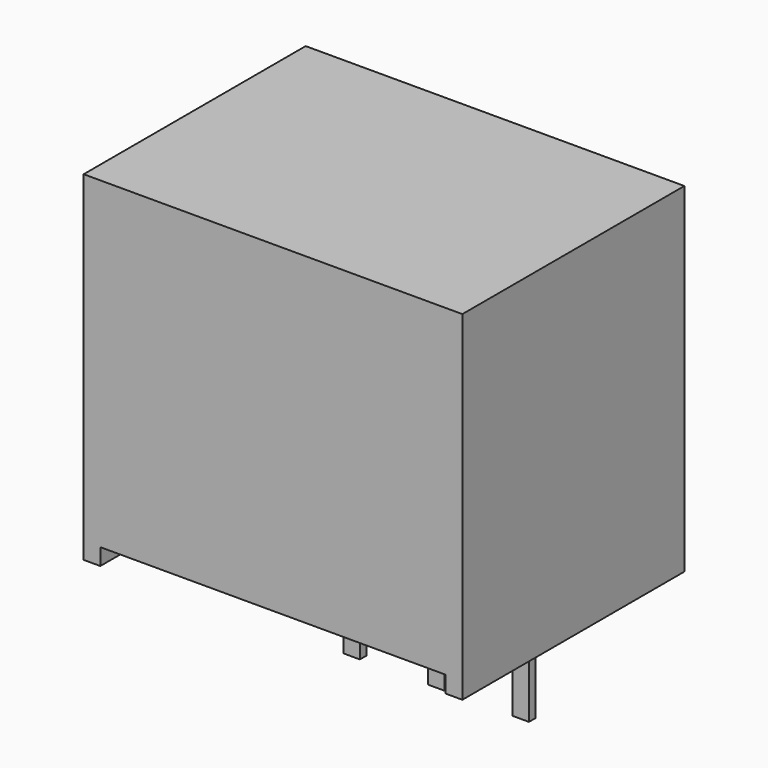
from build123d import *

# Parameters (mm, degrees)
PAD_DEPTH    = 8.5
SKETCH001_W  = 0.5
SKETCH001_H  = 0.25
PAD001_DEPTH = 4.61


with BuildPart() as part:
    # Sketch → Pad (new body)
    with BuildSketch(Plane.XZ):
        Polygon((-5.29, 0), (-5.8, 0), (-5.8, 10.4), (5.8, 10.4), (5.8, 0), (5.29, 0), (5.29, 0.51), (-5.29, 0.51), align=None)
    extrude(amount=PAD_DEPTH)

    # Sketch001 → Pad001 (new body)
    with BuildSketch(Plane(origin=(0, 0, 0.51), x_dir=(1, 0, 0), z_dir=(0, 0, -1))):
        with Locations((-2.59, 2.125)):
            Rectangle(SKETCH001_W, SKETCH001_H)
        with Locations((0, 2.125)):
            Rectangle(SKETCH001_W, SKETCH001_H)
        with Locations((2.59, 2.125)):
            Rectangle(SKETCH001_W, SKETCH001_H)
    extrude(amount=PAD001_DEPTH)


solid = part.part
